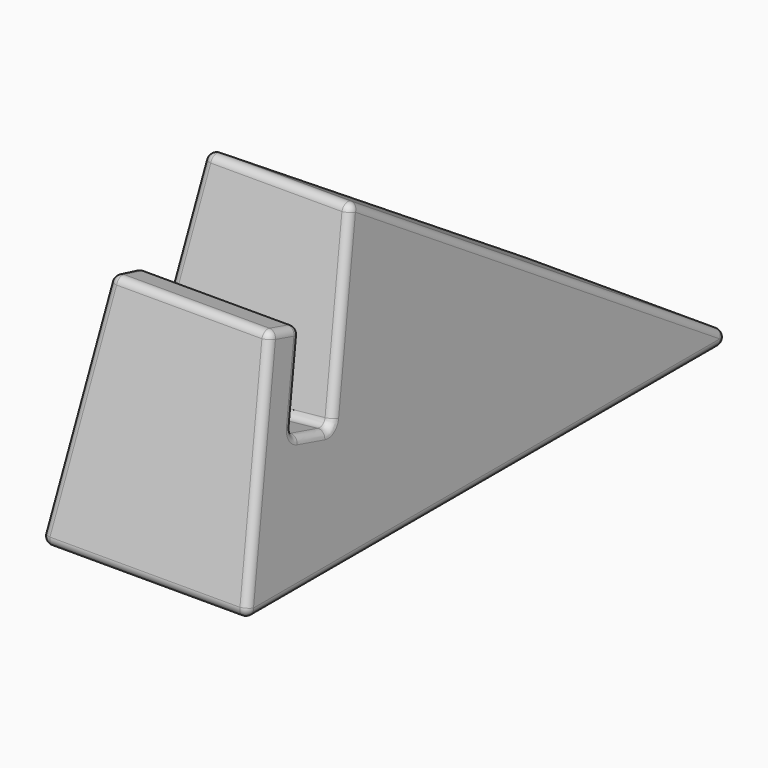
from build123d import *

# Parameters (mm, degrees)
F1_DEPTH = 27
F3_R     = 91.9406887246
F4_DEPTH = 6.5
F6_DEPTH = 43.7
F8_DEPTH = 96
F9_R     = 1


with BuildPart() as f1:
    # F0 (on Right) → F1 (new body)
    with BuildSketch(Plane.YZ):
        Polygon((10.3527618041, 38.6370330516), (0, 0), (80.6664137916, 0), (21.2226228125, 38.6370330516), align=None)
    extrude(amount=F1_DEPTH)

    # F3 (on offset) → F4 (cut)
    with BuildSketch(Plane(origin=(0, 4.8296291314, -1.2940952255), x_dir=(1, 0, 0), z_dir=(0, -0.9659258263, 0.2588190451))):
        with Locations((13.5, 110)):
            Circle(F3_R)
    extrude(amount=-F4_DEPTH, mode=Mode.SUBTRACT)

    # F5 (on face) → F6 (cut)
    with BuildSketch(Plane(origin=(0, 0, 0), x_dir=(0, -1, 0), z_dir=(-1, 0, 0))):
        Polygon((-18.6758581549, 34.7778759897), (-12.6453930714, 27.8747328985), (-15.5291427062, 38.6370330516), (-10.3527618041, 38.6370330516), (-7.81576394, 29.168828124), (-5.5674631149, 30.5033978075), (-7.2772535495, 43.6117947102), (-16.111170873, 47.3163388669), align=None)
        Polygon((-15.5291427062, 38.6370330516), (-12.6453930714, 27.8747328985), (-7.81576394, 29.168828124), (-10.3527618041, 38.6370330516), align=None)
    extrude(amount=-F6_DEPTH, mode=Mode.SUBTRACT)

    # F7 (on Front) → F8 (cut)
    with BuildSketch(Plane.XZ):
        Polygon((21.458028581, 51.2392446399), (27, 0), (40.6126193702, -9.302303195), (49.8705804348, 59.140522033), align=None)
        Polygon((-22.2092997283, -20.874761045), (0, 0), (5.541971419, 51.2392446399), (-20.2254503965, 29.3827727437), align=None)
    extrude(amount=-F8_DEPTH, mode=Mode.SUBTRACT)

    # F9
    f9_edges = [f1.edges().sort_by_distance(p)[0] for p in [
        (2.880945, 19.042842, 26.636267),
        (13.5, 22.104798, 38.063641),
        (2.058457, 51.385606, 19.03182),
        (24.941543, 51.385606, 19.03182),
        (13.5, 80.666414, 0),
        (24.119055, 19.042842, 26.636267),
        (13.5, 15.782241, 14.467536),
        (24.580296, 11.170883, 22.371787),
        (27, 40.333207, 0),
        (25.265261, 12.838619, 16.038825),
        (23.915121, 10.230579, 28.521781),
        (25.422568, 3.907882, 14.584414),
        (13.5, 0, 0),
        (0, 40.333207, 0),
        (13.5, 7.815764, 29.168828),
        (1.577432, 3.907882, 14.584414),
        (13.5, 9.503723, 16.14986),
        (1.734739, 12.838619, 16.038825),
        (3.084879, 10.230579, 28.521781),
        (13.5, 12.645393, 27.874733),
        (2.419704, 11.170883, 22.371787),
    ]]
    fillet(f9_edges, radius=F9_R)


solid = f1.part
